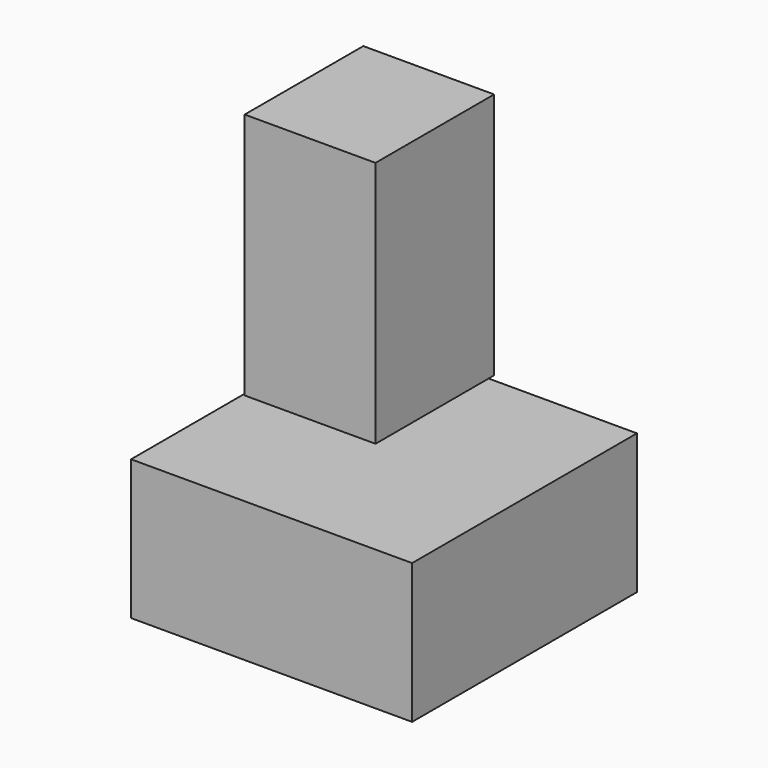
from build123d import *

# Parameters (mm, degrees)
F0_W     = 40
F0_H     = 40
F1_DEPTH = 19.9
F2_W     = 18.62
F2_H     = 35.2
F3_DEPTH = 21.1


with BuildPart() as f1:
    # F0 (on Top) → F1 (new body)
    with BuildSketch(Plane.XY):
        with Locations((-12.790001, 1.733334)):
            Rectangle(F0_W, F0_H)
    extrude(amount=F1_DEPTH)


with BuildPart() as f3:
    # F2 (on Front) → F3 (new body)
    with BuildSketch(Plane.XZ):
        with Locations((-21.920827, 38.575646)):
            Rectangle(F2_W, F2_H)
    extrude(amount=-F3_DEPTH)


solid = Compound([f1.part, f3.part])
